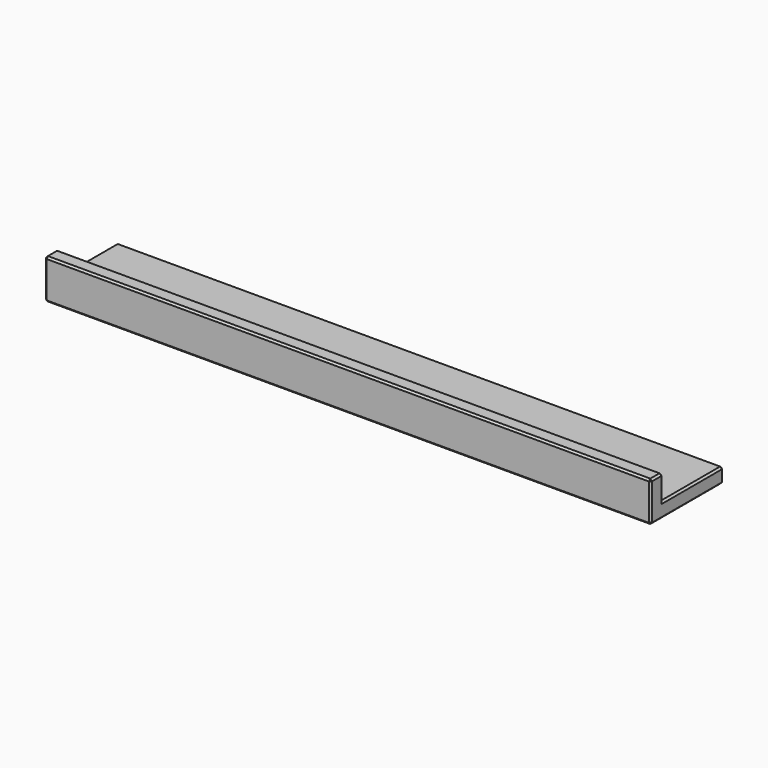
from build123d import *

# Parameters (mm, degrees)
F0_W     = 200
F0_H     = 25
F0_H_2   = 5
F1_DEPTH = 5
F2_DEPTH = 13.2
F3_SIZE  = 0.6


with BuildPart() as f1:
    # F0 (on Top) → F1 (new body)
    with BuildSketch(Plane.XY):
        with Locations((100, 12.5)):
            Rectangle(F0_W, F0_H)
        with Locations((100, -2.5)):
            Rectangle(F0_W, F0_H_2)
    extrude(amount=F1_DEPTH)

    # F0 (on Top) → F2 (join)
    with BuildSketch(Plane.XY):
        with Locations((100, -2.5)):
            Rectangle(F0_W, F0_H_2)
    extrude(amount=F2_DEPTH)

    # F3
    f3_edges = [f1.edges().sort_by_distance(p)[0] for p in [
        (100, 25, 5),
        (200, 12.5, 5),
        (200, 25, 2.5),
        (200, 10, 0),
        (200, -5, 6.6),
        (200, -2.5, 13.2),
        (200, 0, 9.1),
        (0, 25, 2.5),
        (100, 25, 0),
        (0, 10, 0),
        (0, 12.5, 5),
        (0, 0, 9.1),
        (0, -2.5, 13.2),
        (0, -5, 6.6),
        (100, 0, 13.2),
        (100, -5, 13.2),
        (100, -5, 0),
    ]]
    chamfer(f3_edges, length=F3_SIZE)


solid = f1.part
